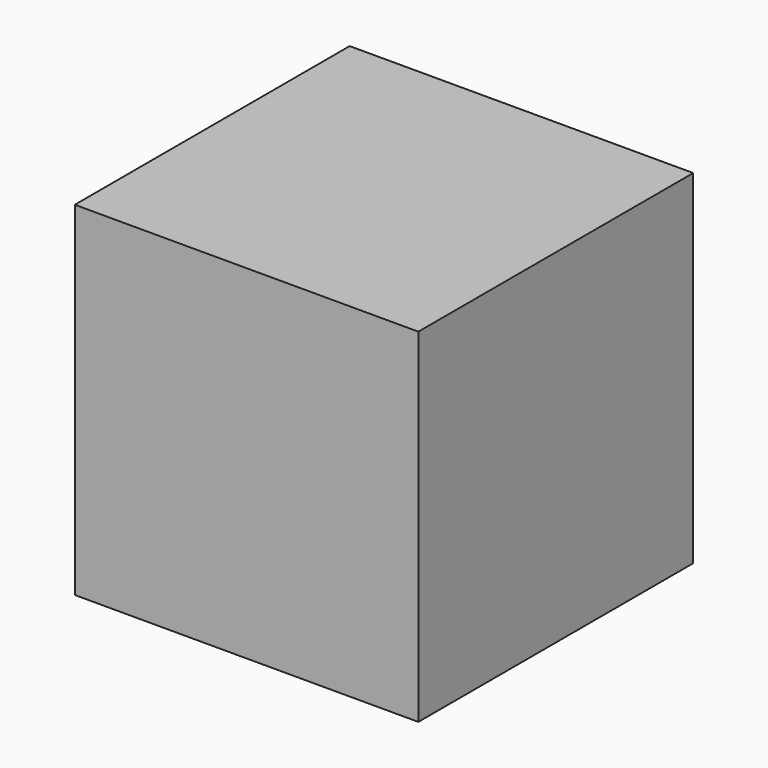
from build123d import *

# Parameters (mm, degrees)
F0_W     = 15.08125
F0_H     = 15.08125
F1_DEPTH = 7.540625
F5_D     = 5.1054
F5_DEPTH = 4.7625
F5_TIP   = 1.5338169022
F6_D     = 5.1054
F6_DEPTH = 4.7625
F6_TIP   = 1.5338169022
F7_D     = 5.1054
F7_DEPTH = 4.7625
F7_TIP   = 1.5338169022


with BuildPart() as f1:
    # F0 (on Top) → F1 (new body, symmetric)
    with BuildSketch(Plane.XY):
        Rectangle(F0_W, F0_H)
    extrude(amount=F1_DEPTH, both=True)

    # F5
    with Locations(Plane(origin=(0, 0, -7.540625), x_dir=(1, 0, 0), z_dir=(0, 0, -1))):
        with Locations((0, 0)):
            Hole(F5_D / 2, depth=F5_DEPTH)
            with Locations((0, 0, -(F5_DEPTH + F5_TIP / 2))):  # 118° drill point
                Cone(0, F5_D / 2, F5_TIP, mode=Mode.SUBTRACT)

    # F6
    with Locations(Plane(origin=(0, 7.540625, 0), x_dir=(-1, 0, 0), z_dir=(0, 1, 0))):
        with Locations((0, 0)):
            Hole(F6_D / 2, depth=F6_DEPTH)
            with Locations((0, 0, -(F6_DEPTH + F6_TIP / 2))):  # 118° drill point
                Cone(0, F6_D / 2, F6_TIP, mode=Mode.SUBTRACT)

    # F7
    with Locations(Plane(origin=(-7.540625, 0, 0), x_dir=(0, -1, 0), z_dir=(-1, 0, 0))):
        with Locations((0, 0)):
            Hole(F7_D / 2, depth=F7_DEPTH)
            with Locations((0, 0, -(F7_DEPTH + F7_TIP / 2))):  # 118° drill point
                Cone(0, F7_D / 2, F7_TIP, mode=Mode.SUBTRACT)


solid = f1.part
